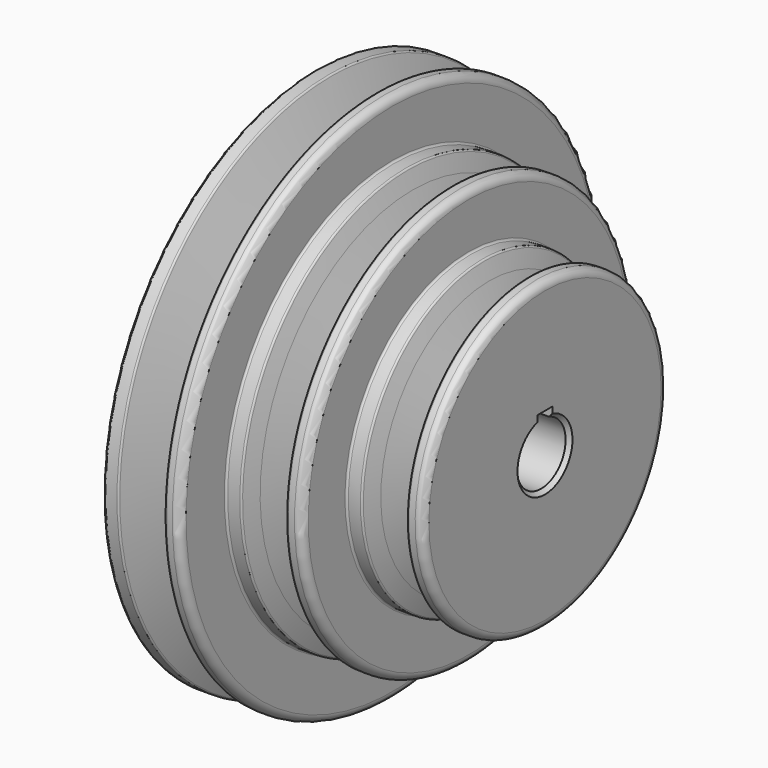
from build123d import *

# Parameters (mm, degrees)
F8_R      = 0.5
F9_R      = 2
F10_R     = 1
F11_R     = 10
F12_R     = 5
F13_SIZE  = 1
F14_W     = 2.5
F14_H     = 4.4565312247
F15_DEPTH = 60.001


with BuildPart() as f1:
    # F0 (on Front) → F1 (revolve)
    with BuildSketch(Plane.XZ):
        Polygon((25, 8), (60, 8), (60, 40), (40, 40), (40, 54.5), (20, 54.5), (20, 69.5), (0, 69.5), (0, 35), (25, 35), align=None)
    revolve(axis=Axis((30.2532836795, 0, 0), (1, 0, 0)))

    # F2 (on Front) → F3 (revolve, cut)
    with BuildSketch(Plane.XZ):
        Polygon((10, 69.5), (3.8505257402, 69.5), (5.4, 65), (10, 65), align=None)
        Polygon((16.1494742598, 69.5), (10, 69.5), (10, 65), (14.6, 65), align=None)
        Polygon((10, 65), (5.4, 65), (8.4989485196, 56), (10, 56), align=None)
        Polygon((14.6, 65), (10, 65), (10, 56), (11.5010514804, 56), align=None)
    revolve(axis=Axis((11.8739651516, 0, 0), (1, 0, 0)), mode=Mode.SUBTRACT)

    # F4 (on Front) → F5 (revolve, cut)
    with BuildSketch(Plane.XZ):
        Polygon((30, 54.5), (24.0242119334, 54.5), (25.4, 50), (30, 50), align=None)
        Polygon((35.9757880666, 54.5), (30, 54.5), (30, 50), (34.6, 50), align=None)
        Polygon((30, 50), (25.4, 50), (28.1515761331, 41), (30, 41), align=None)
        Polygon((34.6, 50), (30, 50), (30, 41), (31.8484238669, 41), align=None)
    revolve(axis=Axis((20.3741732985, 0, 0), (1, 0, 0)), mode=Mode.SUBTRACT)

    # F6 (on Front) → F7 (revolve, cut)
    with BuildSketch(Plane.XZ):
        Polygon((50, 40), (44.0242119334, 40), (45.4, 35.5), (50, 35.5), align=None)
        Polygon((55.9757880666, 40), (50, 40), (50, 35.5), (54.6, 35.5), align=None)
        Polygon((50, 35.5), (45.4, 35.5), (48.1515761331, 26.5), (50, 26.5), align=None)
        Polygon((54.6, 35.5), (50, 35.5), (50, 26.5), (51.8484238669, 26.5), align=None)
    revolve(axis=Axis((9.8710143939, 0, 0), (1, 0, 0)), mode=Mode.SUBTRACT)

    # F8
    f8_edges = [f1.edges().sort_by_distance(p)[0] for p in [
        (0, 0, -69.5),
        (3.850526, 0, -69.5),
        (6.174737, 0, 62.75),
        (16.149474, 0, -69.5),
        (13.825263, 0, 62.75),
        (20, 0, -54.5),
        (24.024212, 0, -54.5),
        (26.087894, 0, 47.75),
        (35.975788, 0, -54.5),
        (33.912106, 0, 47.75),
        (40, 0, -40),
        (44.024212, 0, -40),
        (46.087894, 0, 33.25),
        (55.975788, 0, -40),
        (53.912106, 0, 33.25),
    ]]
    fillet(f8_edges, radius=F8_R)

    # F9
    f9_edges = [f1.edges().sort_by_distance(p)[0] for p in [
        (20, 0, -69.5),
        (40, 0, -54.5),
        (60, 0, -40),
    ]]
    fillet(f9_edges, radius=F9_R)

    # F10
    f10_edges = [f1.edges().sort_by_distance(p)[0] for p in [
        (8.498949, 0, -56),
        (6.232794, 0, 62.581392),
        (10, 0, 56),
        (11.501051, 0, -56),
        (13.767206, 0, 62.581392),
        (28.151576, 0, -41),
        (26.14198, 0, 47.573093),
        (30, 0, 41),
        (31.848424, 0, -41),
        (33.85802, 0, 47.573093),
        (48.151576, 0, -26.5),
        (46.14198, 0, 33.073093),
        (50, 0, 26.5),
        (51.848424, 0, -26.5),
        (53.85802, 0, 33.073093),
    ]]
    fillet(f10_edges, radius=F10_R)

    # F11
    f11_edges = [f1.edges().sort_by_distance(p)[0] for p in [
        (25, 0, -35),
    ]]
    fillet(f11_edges, radius=F11_R)

    # F12
    f12_edges = [f1.edges().sort_by_distance(p)[0] for p in [
        (0, 0, -35),
    ]]
    fillet(f12_edges, radius=F12_R)

    # F13
    f13_edges = [f1.edges().sort_by_distance(p)[0] for p in [
        (25, 0, -8),
        (60, 0, -8),
    ]]
    chamfer(f13_edges, length=F13_SIZE)

    # F14 (on face) → F15 (cut, through all)
    with BuildSketch(Plane.YZ.offset(60)):
        with Locations((-1.25, 8.0717343877)):
            Rectangle(F14_W, F14_H)
        with Locations((1.25, 8.0717343877)):
            Rectangle(F14_W, F14_H)
    extrude(amount=-F15_DEPTH, mode=Mode.SUBTRACT)


solid = f1.part
